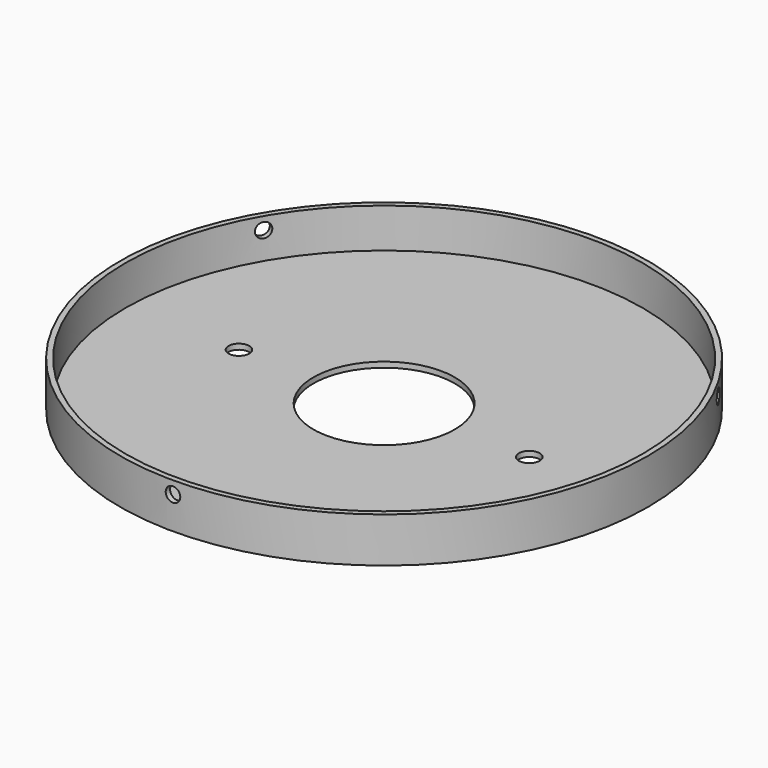
from build123d import *

# Parameters (mm, degrees)
F0_R      = 63.5
F1_DEPTH  = 1.3
F2_R      = 2.5
F3_DEPTH  = 25
F4_R      = 63.5
F4_R_2    = 62.2
F5_DEPTH  = 9.525
F7_R      = 1.75
F8_DEPTH  = 5
F9_COUNT  = 3
F11_R     = 17
F12_DEPTH = 25


with BuildPart() as f1:
    # F0 (on Top) → F1 (new body)
    with BuildSketch(Plane.XY):
        Circle(F0_R)
    extrude(amount=F1_DEPTH)

    # F2 (on face) → F3 (cut)
    with BuildSketch(Plane.XY.offset(1.3)):
        with Locations((-34.925, 0)):
            Circle(F2_R)
        with Locations((34.925, 0)):
            Circle(F2_R)
    extrude(amount=-F3_DEPTH, mode=Mode.SUBTRACT)

    # F4 (on face) → F5 (join)
    with BuildSketch(Plane.XY.offset(1.3)):
        Circle(F4_R)
        Circle(F4_R_2, mode=Mode.SUBTRACT)
    extrude(amount=F5_DEPTH)


with BuildPart() as f8:
    # F7 (on offset) → F8 (new body)
    with BuildSketch(Plane.XZ.offset(63.9)):
        with Locations((0, 7.825)):
            Circle(F7_R)
    extrude(amount=-F8_DEPTH)


with BuildPart() as f9_1:
    # F9: instance of F8
    add(f8.part.rotate(Axis((0, 0, 0), (0, 0, -1)), 1 * 360 / F9_COUNT))


with BuildPart() as f9_2:
    # F9: instance of F8
    add(f8.part.rotate(Axis((0, 0, 0), (0, 0, -1)), 2 * 360 / F9_COUNT))


with BuildPart() as f1_1:
    add(f1.part)

    # F10: cut F8, F9_2, F9_1
    add(f8.part, mode=Mode.SUBTRACT)
    add(f9_2.part, mode=Mode.SUBTRACT)
    add(f9_1.part, mode=Mode.SUBTRACT)

    # F11 (on face) → F12 (cut)
    with BuildSketch(Plane.XY.offset(1.3)):
        Circle(F11_R)
    extrude(amount=-F12_DEPTH, mode=Mode.SUBTRACT)


solid = f1_1.part
